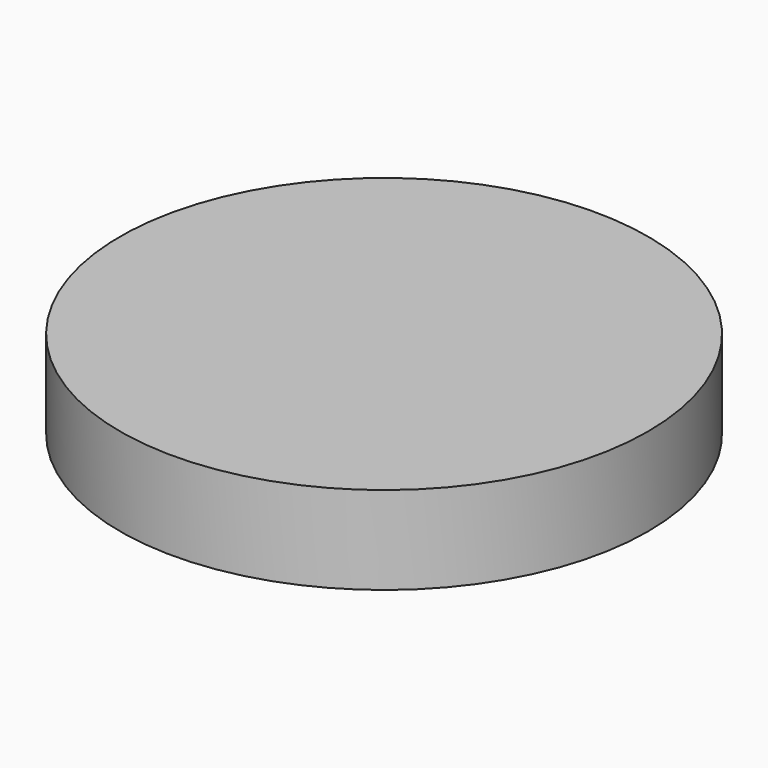
from build123d import *

# Parameters (mm, degrees)
SKETCH_R  = 15
PAD_DEPTH = 5


with BuildPart() as part:
    # Sketch → Pad (new body)
    with BuildSketch(Plane.XY):
        Circle(SKETCH_R)
    extrude(amount=PAD_DEPTH)


solid = part.part
